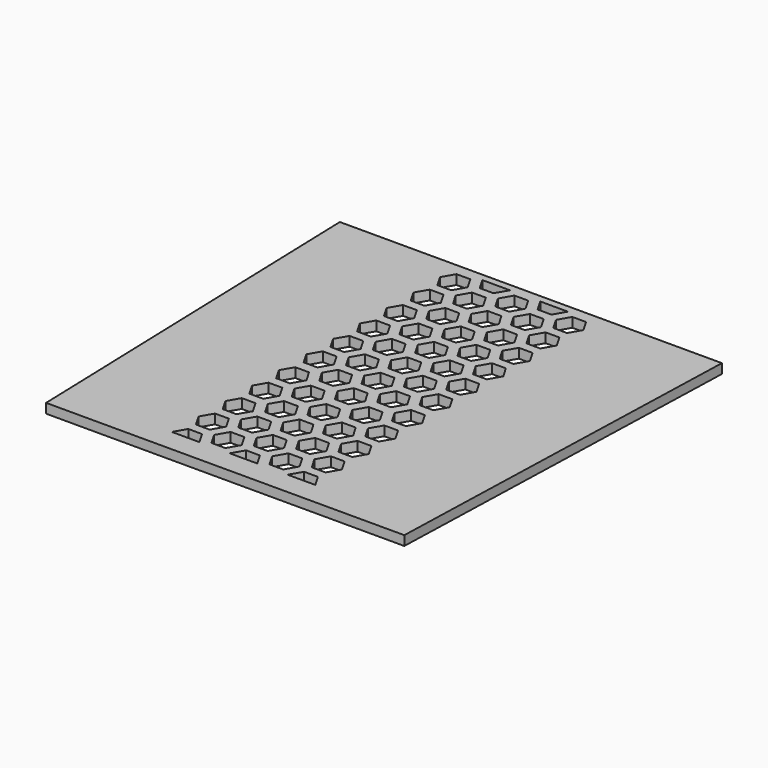
from build123d import *

# Parameters (mm, degrees)
F1_DEPTH = 2


with BuildPart() as f1:
    # F0 (on Top) → F1 (new body)
    with BuildSketch(Plane.XY):
        Polygon((-37.5, -40), (37.5, -40), (40, 40), (-40, 40), align=None)
        Polygon((-13.567731, -32.7), (-10.68098, -32.7), (-9.237604, -35.2), (-15.011107, -35.2), align=None, mode=Mode.SUBTRACT)
        Polygon((-8.948929, -31.7), (-7.505553, -29.2), (-4.618802, -29.2), (-3.175426, -31.7), (-4.618802, -34.2), (-7.505553, -34.2), align=None, mode=Mode.SUBTRACT)
        Polygon((-13.567731, -30.7), (-15.011107, -28.2), (-13.567731, -25.7), (-10.68098, -25.7), (-9.237604, -28.2), (-10.68098, -30.7), align=None, mode=Mode.SUBTRACT)
        Polygon((-15.011107, -21.2), (-13.567731, -18.7), (-10.68098, -18.7), (-9.237604, -21.2), (-10.68098, -23.7), (-13.567731, -23.7), align=None, mode=Mode.SUBTRACT)
        Polygon((-8.948929, -24.7), (-7.505553, -22.2), (-4.618802, -22.2), (-3.175426, -24.7), (-4.618802, -27.2), (-7.505553, -27.2), align=None, mode=Mode.SUBTRACT)
        Polygon((-10.68098, -16.7), (-13.567731, -16.7), (-15.011107, -14.2), (-13.567731, -11.7), (-10.68098, -11.7), (-9.237604, -14.2), align=None, mode=Mode.SUBTRACT)
        Polygon((-4.618802, -20.2), (-7.505553, -20.2), (-8.948929, -17.7), (-7.505553, -15.2), (-4.618802, -15.2), (-3.175426, -17.7), align=None, mode=Mode.SUBTRACT)
        Polygon((-8.948929, -10.7), (-7.505553, -8.2), (-4.618802, -8.2), (-3.175426, -10.7), (-4.618802, -13.2), (-7.505553, -13.2), align=None, mode=Mode.SUBTRACT)
        Polygon((-13.567731, -9.7), (-15.011107, -7.2), (-13.567731, -4.7), (-10.68098, -4.7), (-9.237604, -7.2), (-10.68098, -9.7), align=None, mode=Mode.SUBTRACT)
        Polygon((-3.175426, -3.5), (-4.618802, -6), (-7.505553, -6), (-8.948929, -3.5), (-7.505553, -1), (-4.618802, -1), align=None, mode=Mode.SUBTRACT)
        Polygon((-1.443376, -32.7), (1.443376, -32.7), (2.886751, -35.2), (-2.886751, -35.2), align=None, mode=Mode.SUBTRACT)
        Polygon((3.175426, -31.7), (4.618802, -29.2), (7.505553, -29.2), (8.948929, -31.7), (7.505553, -34.2), (4.618802, -34.2), align=None, mode=Mode.SUBTRACT)
        Polygon((10.68098, -32.7), (13.567731, -32.7), (15.011107, -35.2), (9.237604, -35.2), align=None, mode=Mode.SUBTRACT)
        Polygon((1.443376, -30.7), (-1.443376, -30.7), (-2.886751, -28.2), (-1.443376, -25.7), (1.443376, -25.7), (2.886751, -28.2), align=None, mode=Mode.SUBTRACT)
        Polygon((1.443376, -23.7), (-1.443376, -23.7), (-2.886751, -21.2), (-1.443376, -18.7), (1.443376, -18.7), (2.886751, -21.2), align=None, mode=Mode.SUBTRACT)
        Polygon((7.505553, -22.2), (8.948929, -24.7), (7.505553, -27.2), (4.618802, -27.2), (3.175426, -24.7), (4.618802, -22.2), align=None, mode=Mode.SUBTRACT)
        Polygon((10.68098, -25.7), (13.567731, -25.7), (15.011107, -28.2), (13.567731, -30.7), (10.68098, -30.7), (9.237604, -28.2), align=None, mode=Mode.SUBTRACT)
        Polygon((10.68098, -18.7), (13.567731, -18.7), (15.011107, -21.2), (13.567731, -23.7), (10.68098, -23.7), (9.237604, -21.2), align=None, mode=Mode.SUBTRACT)
        Polygon((8.948929, -17.7), (7.505553, -20.2), (4.618802, -20.2), (3.175426, -17.7), (4.618802, -15.2), (7.505553, -15.2), align=None, mode=Mode.SUBTRACT)
        Polygon((1.443376, -16.7), (-1.443376, -16.7), (-2.886751, -14.2), (-1.443376, -11.7), (1.443376, -11.7), (2.886751, -14.2), align=None, mode=Mode.SUBTRACT)
        Polygon((3.175426, -10.7), (4.618802, -8.2), (7.505553, -8.2), (8.948929, -10.7), (7.505553, -13.2), (4.618802, -13.2), align=None, mode=Mode.SUBTRACT)
        Polygon((13.567731, -11.7), (15.011107, -14.2), (13.567731, -16.7), (10.68098, -16.7), (9.237604, -14.2), (10.68098, -11.7), align=None, mode=Mode.SUBTRACT)
        Polygon((2.886751, -7), (1.443376, -9.5), (-1.443376, -9.5), (-2.886751, -7), (-1.443376, -4.5), (1.443376, -4.5), align=None, mode=Mode.SUBTRACT)
        Polygon((8.948929, -3.5), (7.505553, -6), (4.618802, -6), (3.175426, -3.5), (4.618802, -1), (7.505553, -1), align=None, mode=Mode.SUBTRACT)
        Polygon((13.567731, -9.7), (10.68098, -9.7), (9.237604, -7.2), (10.68098, -4.7), (13.567731, -4.7), (15.011107, -7.2), align=None, mode=Mode.SUBTRACT)
        Polygon((-9.237604, 0), (-10.68098, -2.5), (-13.567731, -2.5), (-15.011107, 0), (-13.567731, 2.5), (-10.68098, 2.5), align=None, mode=Mode.SUBTRACT)
        Polygon((-9.237604, 7), (-10.68098, 4.5), (-13.567731, 4.5), (-15.011107, 7), (-13.567731, 9.5), (-10.68098, 9.5), align=None, mode=Mode.SUBTRACT)
        Polygon((-3.175426, 3.5), (-4.618802, 1), (-7.505553, 1), (-8.948929, 3.5), (-7.505553, 6), (-4.618802, 6), align=None, mode=Mode.SUBTRACT)
        Polygon((-9.237604, 14), (-10.68098, 11.5), (-13.567731, 11.5), (-15.011107, 14), (-13.567731, 16.5), (-10.68098, 16.5), align=None, mode=Mode.SUBTRACT)
        Polygon((-3.175426, 10.5), (-4.618802, 8), (-7.505553, 8), (-8.948929, 10.5), (-7.505553, 13), (-4.618802, 13), align=None, mode=Mode.SUBTRACT)
        Polygon((-7.505553, 15), (-8.948929, 17.5), (-7.505553, 20), (-4.618802, 20), (-3.175426, 17.5), (-4.618802, 15), align=None, mode=Mode.SUBTRACT)
        Polygon((-13.567731, 18.5), (-15.011107, 21), (-13.567731, 23.5), (-10.68098, 23.5), (-9.237604, 21), (-10.68098, 18.5), align=None, mode=Mode.SUBTRACT)
        Polygon((-13.567731, 30.5), (-10.68098, 30.5), (-9.237604, 28), (-10.68098, 25.5), (-13.567731, 25.5), (-15.011107, 28), align=None, mode=Mode.SUBTRACT)
        Polygon((-7.505553, 22), (-8.948929, 24.5), (-7.505553, 27), (-4.618802, 27), (-3.175426, 24.5), (-4.618802, 22), align=None, mode=Mode.SUBTRACT)
        Polygon((-13.567731, 32.5), (-15.011107, 35), (-13.567731, 37.5), (-10.68098, 37.5), (-9.237604, 35), (-10.68098, 32.5), align=None, mode=Mode.SUBTRACT)
        Polygon((-8.948929, 31.5), (-7.505553, 34), (-4.618802, 34), (-3.175426, 31.5), (-4.618802, 29), (-7.505553, 29), align=None, mode=Mode.SUBTRACT)
        Polygon((-3.175426, 38.5), (-4.618802, 36), (-7.505553, 36), (-8.948929, 38.5), align=None, mode=Mode.SUBTRACT)
        Polygon((2.886751, 0), (1.443376, -2.5), (-1.443376, -2.5), (-2.886751, 0), (-1.443376, 2.5), (1.443376, 2.5), align=None, mode=Mode.SUBTRACT)
        Polygon((8.948929, 3.5), (7.505553, 1), (4.618802, 1), (3.175426, 3.5), (4.618802, 6), (7.505553, 6), align=None, mode=Mode.SUBTRACT)
        Polygon((2.886751, 7), (1.443376, 4.5), (-1.443376, 4.5), (-2.886751, 7), (-1.443376, 9.5), (1.443376, 9.5), align=None, mode=Mode.SUBTRACT)
        Polygon((15.011107, 0), (13.567731, -2.5), (10.68098, -2.5), (9.237604, 0), (10.68098, 2.5), (13.567731, 2.5), align=None, mode=Mode.SUBTRACT)
        Polygon((15.011107, 7), (13.567731, 4.5), (10.68098, 4.5), (9.237604, 7), (10.68098, 9.5), (13.567731, 9.5), align=None, mode=Mode.SUBTRACT)
        Polygon((1.443376, 16.5), (2.886751, 14), (1.443376, 11.5), (-1.443376, 11.5), (-2.886751, 14), (-1.443376, 16.5), align=None, mode=Mode.SUBTRACT)
        Polygon((8.948929, 10.5), (7.505553, 8), (4.618802, 8), (3.175426, 10.5), (4.618802, 13), (7.505553, 13), align=None, mode=Mode.SUBTRACT)
        Polygon((4.618802, 20), (7.505553, 20), (8.948929, 17.5), (7.505553, 15), (4.618802, 15), (3.175426, 17.5), align=None, mode=Mode.SUBTRACT)
        Polygon((15.011107, 14), (13.567731, 11.5), (10.68098, 11.5), (9.237604, 14), (10.68098, 16.5), (13.567731, 16.5), align=None, mode=Mode.SUBTRACT)
        Polygon((-2.886751, 21), (-1.443376, 23.5), (1.443376, 23.5), (2.886751, 21), (1.443376, 18.5), (-1.443376, 18.5), align=None, mode=Mode.SUBTRACT)
        Polygon((4.618802, 22), (3.175426, 24.5), (4.618802, 27), (7.505553, 27), (8.948929, 24.5), (7.505553, 22), align=None, mode=Mode.SUBTRACT)
        Polygon((2.886751, 28), (1.443376, 25.5), (-1.443376, 25.5), (-2.886751, 28), (-1.443376, 30.5), (1.443376, 30.5), align=None, mode=Mode.SUBTRACT)
        Polygon((10.68098, 23.5), (13.567731, 23.5), (15.011107, 21), (13.567731, 18.5), (10.68098, 18.5), (9.237604, 21), align=None, mode=Mode.SUBTRACT)
        Polygon((10.68098, 30.5), (13.567731, 30.5), (15.011107, 28), (13.567731, 25.5), (10.68098, 25.5), (9.237604, 28), align=None, mode=Mode.SUBTRACT)
        Polygon((7.505553, 29), (4.618802, 29), (3.175426, 31.5), (4.618802, 34), (7.505553, 34), (8.948929, 31.5), align=None, mode=Mode.SUBTRACT)
        Polygon((2.886751, 35), (1.443376, 32.5), (-1.443376, 32.5), (-2.886751, 35), (-1.443376, 37.5), (1.443376, 37.5), align=None, mode=Mode.SUBTRACT)
        Polygon((8.948929, 38.5), (7.505553, 36), (4.618802, 36), (3.175426, 38.5), align=None, mode=Mode.SUBTRACT)
        Polygon((9.237604, 35), (10.68098, 37.5), (13.567731, 37.5), (15.011107, 35), (13.567731, 32.5), (10.68098, 32.5), align=None, mode=Mode.SUBTRACT)
    extrude(amount=F1_DEPTH)


solid = f1.part
